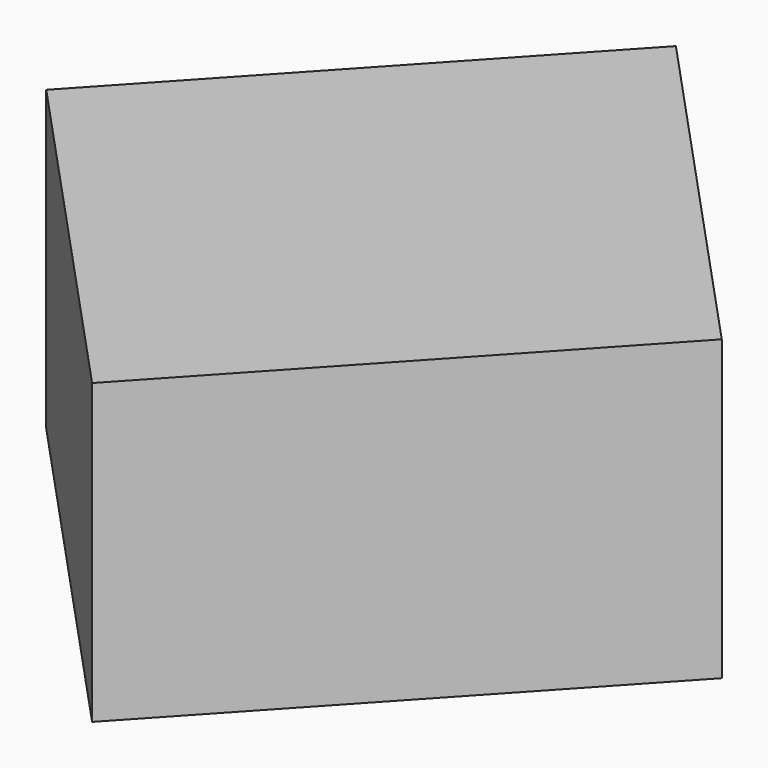
from build123d import *

# Parameters (mm, degrees)
F0_R      = 20
F1_DEPTH  = 25
F2_DEPTH  = 10
F3_DEPTH  = 15
F4_DEPTH  = 25
F5_DEPTH  = 5
F6_DEPTH  = 10
F7_DEPTH  = 10
F5_FACE_R = 20
F8_DEPTH  = 10


with BuildPart() as f1:
    # F0 (on Top) → F1 (new body)
    with BuildSketch(Plane.XY):
        Polygon((33.9652827231, 0), (0, 36.6927727154), (-33.9652827231, 0), (0, -36.6927727154), align=None)
        Circle(F0_R, mode=Mode.SUBTRACT)
    extrude(amount=F1_DEPTH)

    # F0 (on Top) → F2 (join)
    with BuildSketch(Plane.XY):
        Polygon((33.9652827231, 0), (0, 36.6927727154), (-33.9652827231, 0), (0, -36.6927727154), align=None)
        Circle(F0_R, mode=Mode.SUBTRACT)
    extrude(amount=F2_DEPTH)

    # F0 (on Top) → F3 (join)
    with BuildSketch(Plane.XY):
        Polygon((33.9652827231, 0), (0, 36.6927727154), (-33.9652827231, 0), (0, -36.6927727154), align=None)
        Circle(F0_R, mode=Mode.SUBTRACT)
        Circle(F0_R)
    extrude(amount=F3_DEPTH)

    # F0 (on Top) → F4 (join)
    with BuildSketch(Plane.XY):
        Circle(F0_R)
    extrude(amount=F4_DEPTH)

    # F0 (on Top) → F5 (join)
    with BuildSketch(Plane.XY):
        Polygon((33.9652827231, 0), (0, 36.6927727154), (-33.9652827231, 0), (0, -36.6927727154), align=None)
        Circle(F0_R, mode=Mode.SUBTRACT)
    extrude(amount=-F5_DEPTH)

    # F0 (on Top) → F6 (join)
    with BuildSketch(Plane.XY):
        Circle(F0_R)
    extrude(amount=F6_DEPTH)

    # F0 (on Top) → F7 (join)
    with BuildSketch(Plane.XY):
        Circle(F0_R)
    extrude(amount=F7_DEPTH)

    # F0 (on Top) + F5_face (on face) → F8 (join)
    with BuildSketch(Plane.XY):
        Circle(F0_R)
    with BuildSketch(Plane(origin=(0, 0, -5), x_dir=(1, 0, 0), z_dir=(0, 0, -1))):
        Polygon((0, 36.6927727154), (-33.9652827231, 0), (0, -36.6927727154), (33.9652827231, 0), align=None)
        Circle(F5_FACE_R, mode=Mode.SUBTRACT)
    extrude(amount=F8_DEPTH, dir=(0, 0, 1))


solid = f1.part
